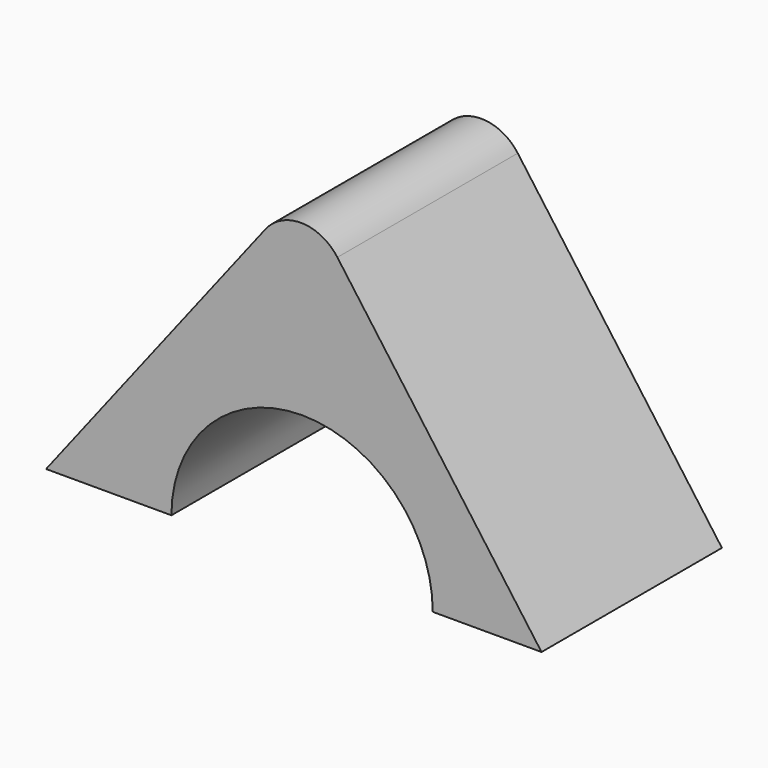
from build123d import *

# Parameters (mm, degrees)
F1_DEPTH = 12.7
F2_R     = 14.718879
F3_DEPTH = 22.605523
F4_R     = 5.08


with BuildPart() as f1:
    # F0 (on Front) → F1 (new body, symmetric)
    with BuildSketch(Plane.XZ):
        Polygon((-28.836578, 0), (0, 0), (26.969403, 0), (0, 37.134841), align=None)
    extrude(amount=F1_DEPTH, both=True)

    # F2 (on Front) → F3 (cut, symmetric)
    with BuildSketch(Plane.XZ):
        Circle(F2_R)
    extrude(amount=F3_DEPTH, both=True, mode=Mode.SUBTRACT)

    # F4
    f4_edges = [f1.edges().sort_by_distance(p)[0] for p in [
        (0, 0, 37.134841),
    ]]
    fillet(f4_edges, radius=F4_R)


solid = f1.part
